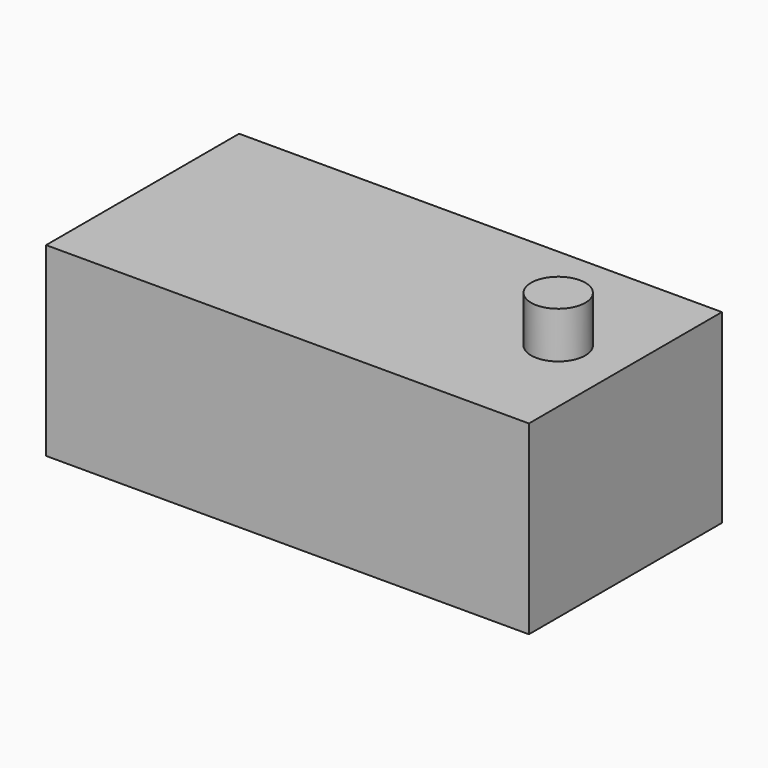
from build123d import *

# Parameters (mm, degrees)
F0_W     = 66.074446
F0_H     = 33.013113
F1_DEPTH = 12.7
F2_R     = 3.71087
F3_DEPTH = 6.35


with BuildPart() as f1:
    # F0 (on Top) → F1 (new body, symmetric)
    with BuildSketch(Plane.XY):
        with Locations((-33.037223, -41.1149)):
            Rectangle(F0_W, F0_H)
    extrude(amount=F1_DEPTH, both=True)

    # F2 (on face) → F3 (join)
    with BuildSketch(Plane.XY.offset(12.7)):
        with Locations((-8.831992, -41.570105)):
            Circle(F2_R)
    extrude(amount=F3_DEPTH)


solid = f1.part
